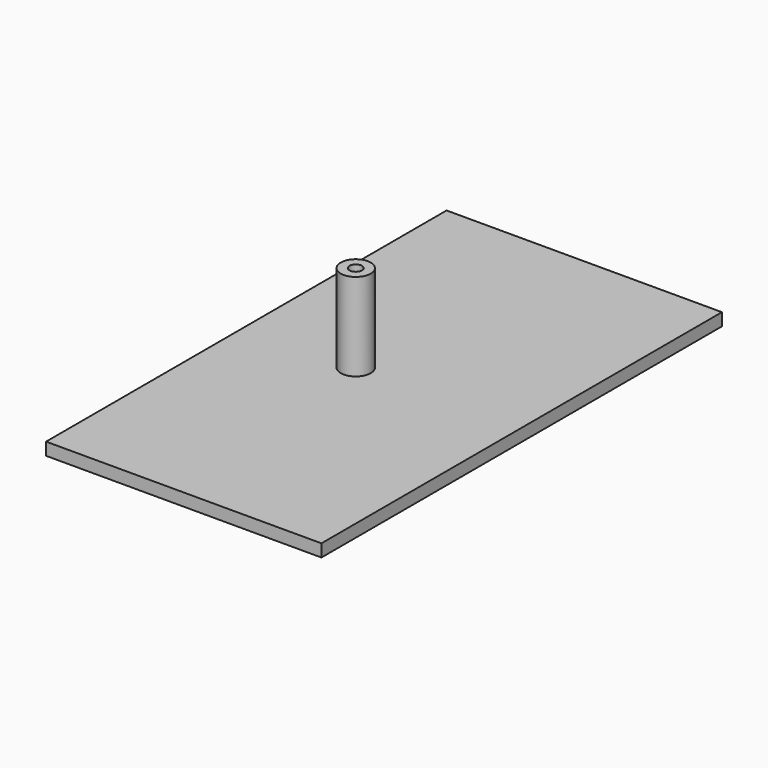
from build123d import *

# Parameters (mm, degrees)
F0_W     = 69.85
F0_H     = 57.15
F0_H_2   = 69.85
F0_R     = 3.81
F0_R_2   = 1.5875
F1_DEPTH = 3.175
F2_DEPTH = 25.4


with BuildPart() as f1:
    # F0 (on Top) → F1 (new body)
    with BuildSketch(Plane.XY):
        with Locations((-12.343102, -98.802824)):
            Rectangle(F0_W, F0_H)
        with Locations((-12.343102, -35.302824)):
            Rectangle(F0_W, F0_H_2)
        with Locations((-19.20311, -64.258824)):
            Circle(F0_R, mode=Mode.SUBTRACT)
        with Locations((-19.20311, -64.258824)):
            Circle(F0_R_2)
    extrude(amount=F1_DEPTH)

    # F0 (on Top) → F2 (join)
    with BuildSketch(Plane.XY):
        with Locations((-19.20311, -64.258824)):
            Circle(F0_R)
        with Locations((-19.20311, -64.258824)):
            Circle(F0_R_2, mode=Mode.SUBTRACT)
    extrude(amount=F2_DEPTH)


solid = f1.part
